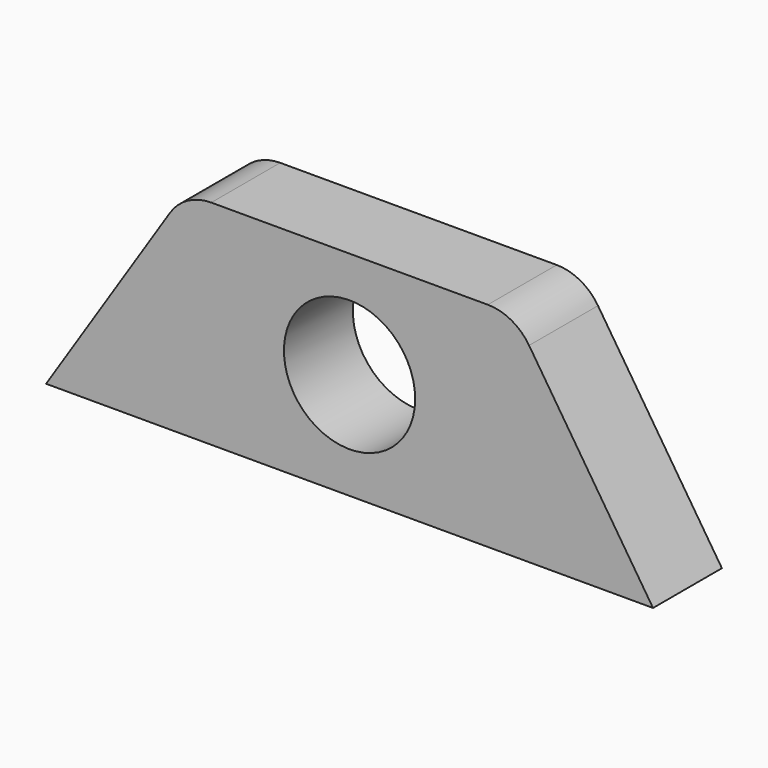
from build123d import *

# Parameters (mm, degrees)
F0_R     = 4
F1_DEPTH = 5.25
F2_R     = 3


with BuildPart() as f1:
    # F0 (on Front) → F1 (new body)
    with BuildSketch(Plane.XZ):
        Polygon((8.442299, 13), (0, 0), (37, 0), (28.557701, 13), align=None)
        with Locations((18.5, 6.5)):
            Circle(F0_R, mode=Mode.SUBTRACT)
    extrude(amount=F1_DEPTH)

    # F2
    f2_edges = [f1.edges().sort_by_distance(p)[0] for p in [
        (8.442299, -2.625, 13),
        (28.557701, -2.625, 13),
    ]]
    fillet(f2_edges, radius=F2_R)


solid = f1.part
